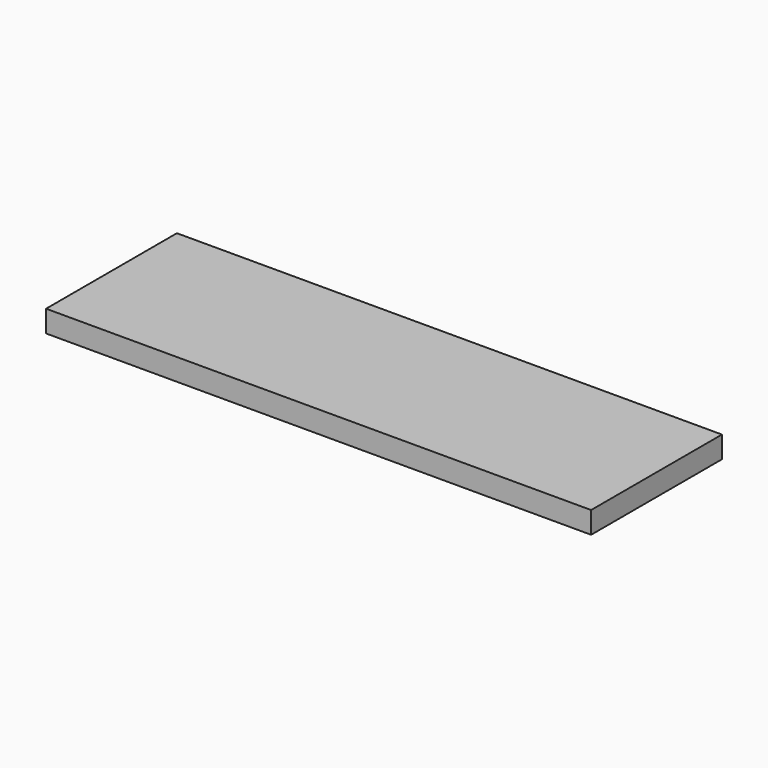
from build123d import *

# Parameters (mm, degrees)
SKETCH_W       = 30
SKETCH_H       = 4
PAD_DEPTH      = 50
PAD_DEPTH_BACK = 50


with BuildPart() as part:
    # Sketch → Pad (new body, two sides)
    with BuildSketch(Plane.YZ) as pad_sk:
        with Locations((2.171573, 3.446354)):
            Rectangle(SKETCH_W, SKETCH_H)
    extrude(amount=PAD_DEPTH)
    extrude(pad_sk.sketch, amount=-PAD_DEPTH_BACK)


solid = part.part
